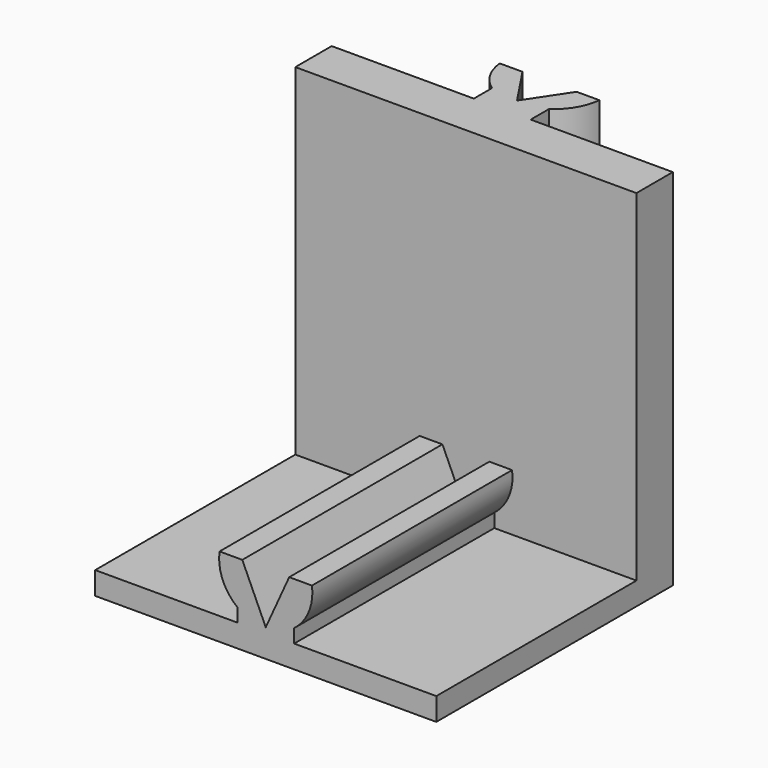
from build123d import *

# Parameters (mm, degrees)
SKETCH_W     = 15
SKETCH_H     = 13
PAD_DEPTH    = 1
SKETCH001_W  = 15
SKETCH001_H  = 2
PAD001_DEPTH = 15
PAD002_DEPTH = 11
PAD003_DEPTH = 16


with BuildPart() as part:
    # Sketch → Pad (new body)
    with BuildSketch(Plane.XY):
        Rectangle(SKETCH_W, SKETCH_H)
    extrude(amount=PAD_DEPTH)

    # Sketch001 → Pad001 (new body)
    with BuildSketch(Plane.XY.offset(1)):
        with Locations((0, 5.5)):
            Rectangle(SKETCH001_W, SKETCH001_H)
    extrude(amount=PAD001_DEPTH)

    # Sketch002 → Pad002 (new body)
    with BuildSketch(Plane.XZ.offset(6.5)):
        with BuildLine():
            Line((-1.25, 1), (1.25, 1))
            Line((1.25, 1), (1.25, 1.6))
            ThreePointArc((1.25, 1.6), (1.895909, 2.445045), (2.031445, 3.5))
            Line((2.031445, 3.5), (1.031445, 3.5))
            Line((1.031445, 3.5), (0, 1.224808))
            Line((0, 1.224808), (-1.031445, 3.5))
            Line((-2.031445, 3.5), (-1.031445, 3.5))
            ThreePointArc((-2.031445, 3.5), (-1.895909, 2.445045), (-1.25, 1.6))
            Line((-1.25, 1), (-1.25, 1.6))
        make_face()
    extrude(amount=-PAD002_DEPTH)

    # Sketch003 → Pad003 (new body)
    with BuildSketch(Plane.XY.offset(16)):
        with BuildLine():
            Line((-1.25, 7.5), (-1.25, 6.5))
            Line((-1.25, 6.5), (1.25, 6.5))
            Line((1.25, 6.5), (1.25, 7.5))
            ThreePointArc((1.25, 7.5), (1.896907, 8.196052), (2.189917, 9.1))
            Line((2.189917, 9.1), (1.189917, 9.1))
            Line((1.189917, 9.1), (0, 7.310387))
            Line((0, 7.310387), (-1.189917, 9.1))
            Line((-2.189917, 9.1), (-1.189917, 9.1))
            ThreePointArc((-2.189917, 9.1), (-1.896907, 8.196052), (-1.25, 7.5))
        make_face()
    extrude(amount=-PAD003_DEPTH)


solid = part.part
